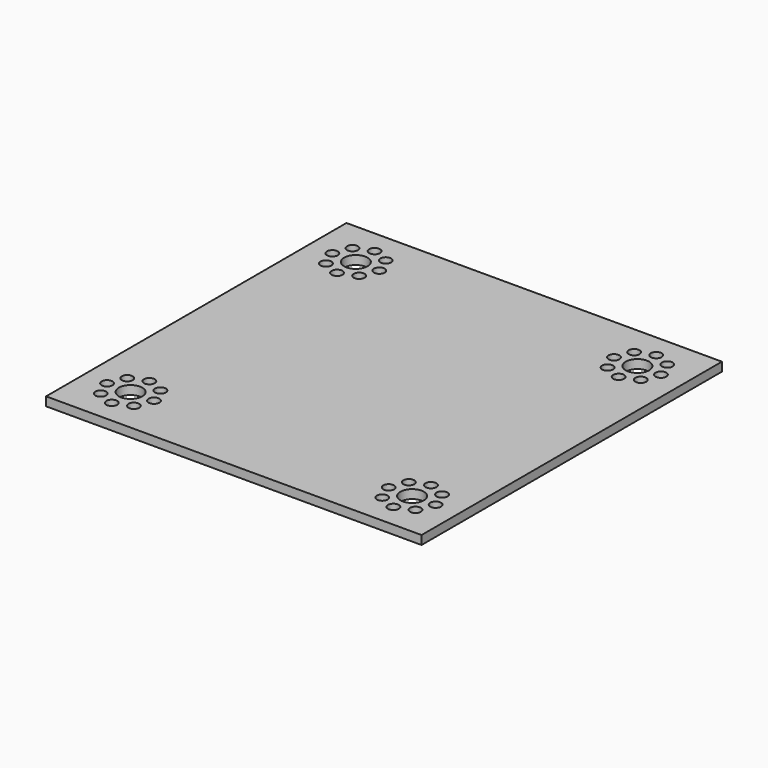
from build123d import *

# Parameters (mm, degrees)
F0_W     = 128
F0_H     = 128
F0_R     = 1.85
F0_R_2   = 4
F1_DEPTH = 3


with BuildPart() as f1:
    # F0 (on Top) → F1 (new body)
    with BuildSketch(Plane.XY):
        Rectangle(F0_W, F0_H)
        with Locations((-53.656854, -53.656854)):
            Circle(F0_R, mode=Mode.SUBTRACT)
        with Locations((-48, -56)):
            Circle(F0_R, mode=Mode.SUBTRACT)
        with Locations((-42.343146, -53.656854)):
            Circle(F0_R, mode=Mode.SUBTRACT)
        with Locations((-56, -48)):
            Circle(F0_R, mode=Mode.SUBTRACT)
        with Locations((-53.656854, -42.343146)):
            Circle(F0_R, mode=Mode.SUBTRACT)
        with Locations((-48, -48)):
            Circle(F0_R_2, mode=Mode.SUBTRACT)
        with Locations((-42.343146, -42.343146)):
            Circle(F0_R, mode=Mode.SUBTRACT)
        with Locations((-40, -48)):
            Circle(F0_R, mode=Mode.SUBTRACT)
        with Locations((-48, -40)):
            Circle(F0_R, mode=Mode.SUBTRACT)
        with Locations((42.343146, -53.656854)):
            Circle(F0_R, mode=Mode.SUBTRACT)
        with Locations((48, -56)):
            Circle(F0_R, mode=Mode.SUBTRACT)
        with Locations((53.656854, -53.656854)):
            Circle(F0_R, mode=Mode.SUBTRACT)
        with Locations((40, -48)):
            Circle(F0_R, mode=Mode.SUBTRACT)
        with Locations((42.343146, -42.343146)):
            Circle(F0_R, mode=Mode.SUBTRACT)
        with Locations((48, -48)):
            Circle(F0_R_2, mode=Mode.SUBTRACT)
        with Locations((53.656854, -42.343146)):
            Circle(F0_R, mode=Mode.SUBTRACT)
        with Locations((56, -48)):
            Circle(F0_R, mode=Mode.SUBTRACT)
        with Locations((48, -40)):
            Circle(F0_R, mode=Mode.SUBTRACT)
        with Locations((-53.656854, 42.343146)):
            Circle(F0_R, mode=Mode.SUBTRACT)
        with Locations((-48, 40)):
            Circle(F0_R, mode=Mode.SUBTRACT)
        with Locations((-42.343146, 42.343146)):
            Circle(F0_R, mode=Mode.SUBTRACT)
        with Locations((-56, 48)):
            Circle(F0_R, mode=Mode.SUBTRACT)
        with Locations((-53.656854, 53.656854)):
            Circle(F0_R, mode=Mode.SUBTRACT)
        with Locations((-48, 48)):
            Circle(F0_R_2, mode=Mode.SUBTRACT)
        with Locations((-42.343146, 53.656854)):
            Circle(F0_R, mode=Mode.SUBTRACT)
        with Locations((-40, 48)):
            Circle(F0_R, mode=Mode.SUBTRACT)
        with Locations((-48, 56)):
            Circle(F0_R, mode=Mode.SUBTRACT)
        with Locations((42.343146, 42.343146)):
            Circle(F0_R, mode=Mode.SUBTRACT)
        with Locations((48, 40)):
            Circle(F0_R, mode=Mode.SUBTRACT)
        with Locations((53.656854, 42.343146)):
            Circle(F0_R, mode=Mode.SUBTRACT)
        with Locations((40, 48)):
            Circle(F0_R, mode=Mode.SUBTRACT)
        with Locations((42.343146, 53.656854)):
            Circle(F0_R, mode=Mode.SUBTRACT)
        with Locations((48, 48)):
            Circle(F0_R_2, mode=Mode.SUBTRACT)
        with Locations((53.656854, 53.656854)):
            Circle(F0_R, mode=Mode.SUBTRACT)
        with Locations((56, 48)):
            Circle(F0_R, mode=Mode.SUBTRACT)
        with Locations((48, 56)):
            Circle(F0_R, mode=Mode.SUBTRACT)
    extrude(amount=F1_DEPTH)


solid = f1.part
